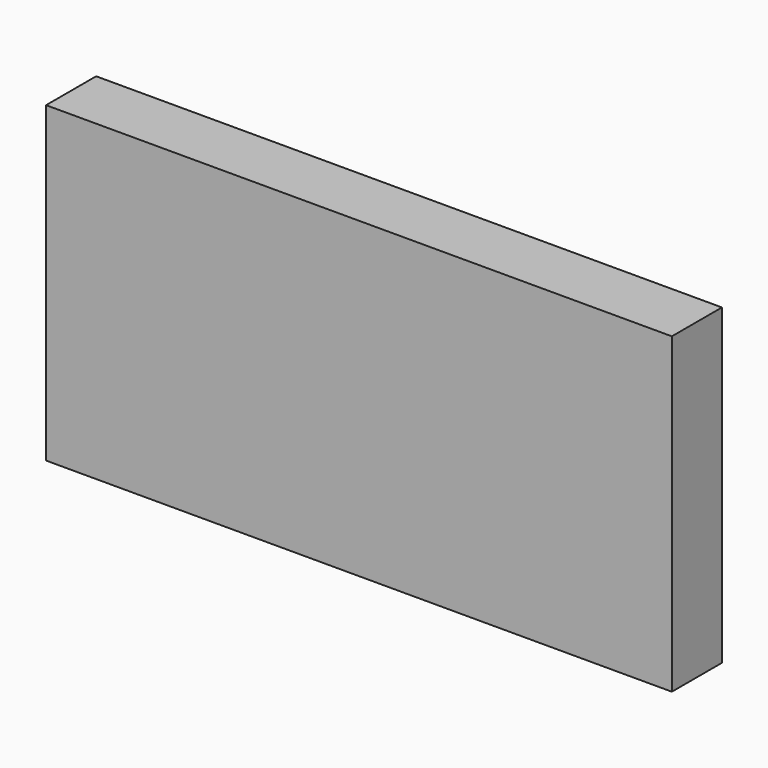
from build123d import *

# Parameters (mm, degrees)
BOX_W     = 10
BOX_H     = 1
BOX_DEPTH = 5


with BuildPart() as part:
    # Box → Box (new body)
    with BuildSketch(Plane.XY):
        with Locations((5, 0.5)):
            Rectangle(BOX_W, BOX_H)
    extrude(amount=BOX_DEPTH)


solid = part.part
